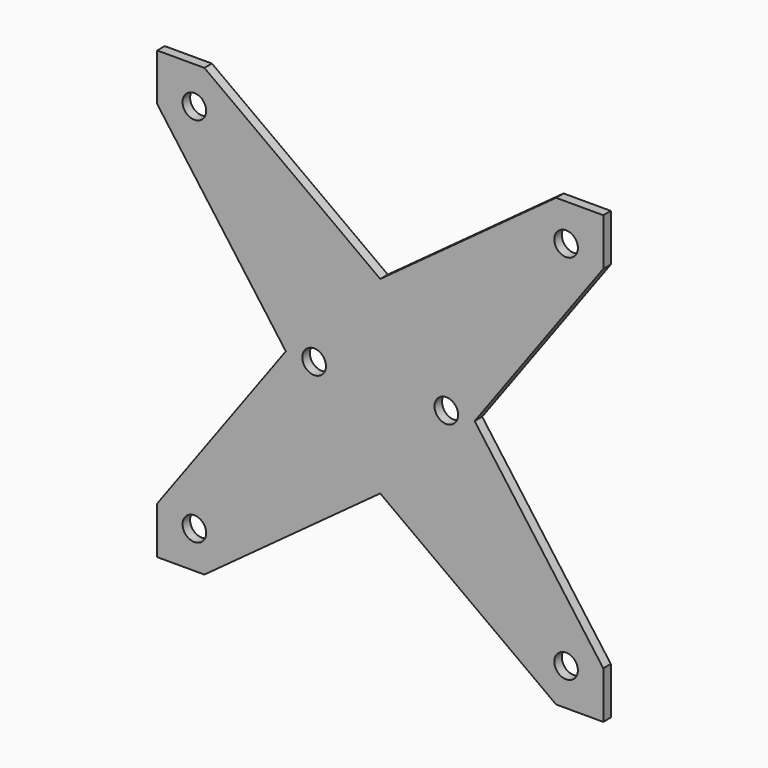
from build123d import *

# Parameters (mm, degrees)
F0_R     = 3.175
F1_DEPTH = 2.54


with BuildPart() as f1:
    # F0 (on Front) → F1 (new body)
    with BuildSketch(Plane.XZ):
        Polygon((60, 47.3), (60, 60), (47.3, 60), (0, 25.4), (-47.3, 60), (-60, 60), (-60, 47.3), (-25.4, 0), (-60, -47.3), (-60, -60), (-47.3, -60), (0, -25.4), (47.3, -60), (60, -60), (60, -47.3), (25.4, 0), align=None)
        with Locations((-50, -50)):
            Circle(F0_R, mode=Mode.SUBTRACT)
        with Locations((50, -50)):
            Circle(F0_R, mode=Mode.SUBTRACT)
        with Locations((-17.78, 0)):
            Circle(F0_R, mode=Mode.SUBTRACT)
        with Locations((-50, 50)):
            Circle(F0_R, mode=Mode.SUBTRACT)
        with Locations((17.78, 0)):
            Circle(F0_R, mode=Mode.SUBTRACT)
        with Locations((50, 50)):
            Circle(F0_R, mode=Mode.SUBTRACT)
    extrude(amount=F1_DEPTH)


solid = f1.part
